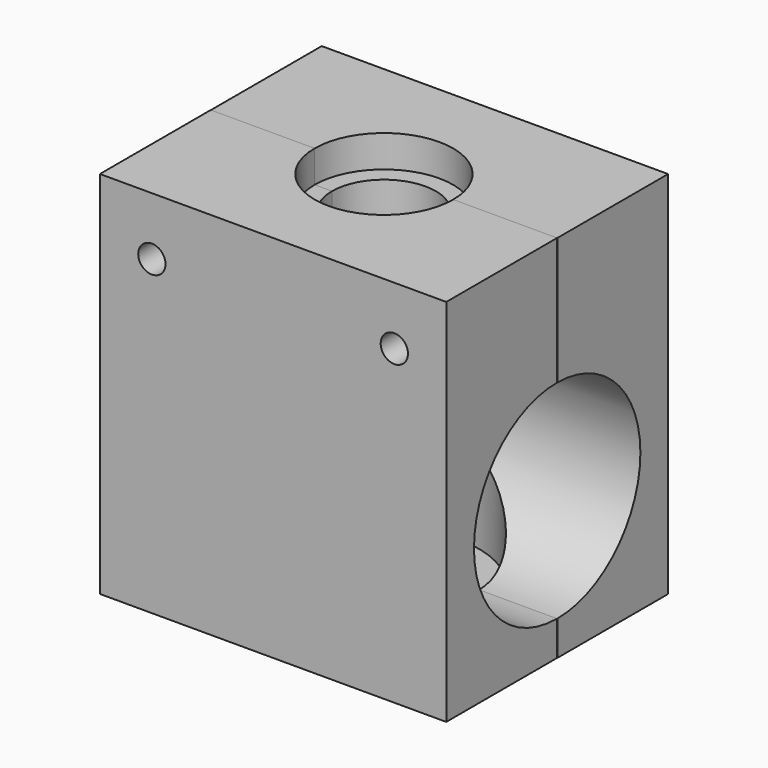
from build123d import *

# Parameters (mm, degrees)
F0_W      = 40
F0_H      = 16
F2_DEPTH  = 42.7
F1_W      = 40
F1_H      = 16
F3_DEPTH  = 42.7
F5_DEPTH  = 3.7
F6_R      = 6
F7_DEPTH  = 6
F8_R      = 8
F9_DEPTH  = 6
F10_R     = 11
F11_DEPTH = 26
F12_R     = 3
F13_DEPTH = 1
F16_D     = 3
F16_DEPTH = 5
F16_TIP   = 0.9012909285
F18_D     = 3
F18_DEPTH = 5
F18_TIP   = 0.9012909285
F20_D     = 3
F20_DEPTH = 5
F20_TIP   = 0.9012909285
F22_D     = 3
F22_DEPTH = 5
F22_TIP   = 0.9012909285
F24_D     = 3.15
F24_2_D   = 3.15
F26_D     = 3.15
F26_2_D   = 3.15
F28_D     = 24
F28_2_D   = 24


with BuildPart() as f2:
    # F0 (on Top) → F2 (new body)
    with BuildSketch(Plane.XY):
        Rectangle(F0_W, F0_H)
    extrude(amount=F2_DEPTH)


with BuildPart() as f3:
    # F1 (on face) → F3 (new body)
    with BuildSketch(Plane.XY):
        with Locations((0.0176080316, 16)):
            Rectangle(F1_W, F1_H)
    extrude(amount=F3_DEPTH)


with BuildPart() as f5_tool:
    # F4 (on face) → F5 (new body)
    with BuildSketch(Plane.XY.offset(42.7)):
        with BuildLine():
            ThreePointArc((-8, 8), (0, 0), (8, 8))
            Line((8, 8), (-8, 8))
        make_face()
        with BuildLine():
            Line((-8, 8), (8, 8))
            ThreePointArc((8, 8), (0, 16), (-8, 8))
        make_face()
    extrude(amount=-F5_DEPTH)


with BuildPart() as f2_1:
    add(f2.part)

    # F5: cut by f5_tool
    add(f5_tool.part, mode=Mode.SUBTRACT)


with BuildPart() as f3_1:
    add(f3.part)

    # F5: cut by f5_tool
    add(f5_tool.part, mode=Mode.SUBTRACT)


with BuildPart() as f7_tool:
    # F6 (on face) → F7 (new body)
    with BuildSketch(Plane.XY.offset(39)):
        with Locations((0, 8)):
            Circle(F6_R)
    extrude(amount=-F7_DEPTH)


with BuildPart() as f2_2:
    add(f2_1.part)

    # F7: cut by f7_tool
    add(f7_tool.part, mode=Mode.SUBTRACT)


with BuildPart() as f3_2:
    add(f3_1.part)

    # F7: cut by f7_tool
    add(f7_tool.part, mode=Mode.SUBTRACT)


with BuildPart() as f9_tool:
    # F8 (on face) → F9 (new body)
    with BuildSketch(Plane.XY.offset(33)):
        with Locations((0, 8)):
            Circle(F8_R)
    extrude(amount=-F9_DEPTH)


with BuildPart() as f2_3:
    add(f2_2.part)

    # F9: cut by f9_tool
    add(f9_tool.part, mode=Mode.SUBTRACT)


with BuildPart() as f3_3:
    add(f3_2.part)

    # F9: cut by f9_tool
    add(f9_tool.part, mode=Mode.SUBTRACT)


with BuildPart() as f11_tool:
    # F10 (on face) → F11 (new body)
    with BuildSketch(Plane.XY.offset(27)):
        with Locations((0, 8)):
            Circle(F10_R)
    extrude(amount=-F11_DEPTH)


with BuildPart() as f2_4:
    add(f2_3.part)

    # F11: cut by f11_tool
    add(f11_tool.part, mode=Mode.SUBTRACT)


with BuildPart() as f3_4:
    add(f3_3.part)

    # F11: cut by f11_tool
    add(f11_tool.part, mode=Mode.SUBTRACT)


with BuildPart() as f13_tool:
    # F12 (on face) → F13 (new body)
    with BuildSketch(Plane.XY.offset(1)):
        with Locations((0, 8)):
            Circle(F12_R)
    extrude(amount=-F13_DEPTH)


with BuildPart() as f2_5:
    add(f2_4.part)

    # F13: cut by f13_tool
    add(f13_tool.part, mode=Mode.SUBTRACT)

    # F16
    with Locations(Plane(origin=(-20, 0, 0), x_dir=(0, -1, 0), z_dir=(-1, 0, 0))):
        with Locations((4, 4)):
            Hole(F16_D / 2, depth=F16_DEPTH)
            with Locations((0, 0, -(F16_DEPTH + F16_TIP / 2))):  # 118° drill point
                Cone(0, F16_D / 2, F16_TIP, mode=Mode.SUBTRACT)

    # F20
    with Locations(Plane(origin=(-20, 0, 0), x_dir=(0, -1, 0), z_dir=(-1, 0, 0))):
        with Locations((4, 28)):
            Hole(F20_D / 2, depth=F20_DEPTH)
            with Locations((0, 0, -(F20_DEPTH + F20_TIP / 2))):  # 118° drill point
                Cone(0, F20_D / 2, F20_TIP, mode=Mode.SUBTRACT)

    # F24 (through all)
    with Locations(Plane.XZ.offset(8)):
        with Locations((-14, 36)):
            Hole(F24_D / 2)

    # F26 (through all)
    with Locations(Plane.XZ.offset(8)):
        with Locations((14, 36)):
            Hole(F26_D / 2)

    # F28 (through all)
    with Locations(Plane(origin=(-20, 0, 0), x_dir=(0, -1, 0), z_dir=(-1, 0, 0))):
        with Locations((-8, 16)):
            Hole(F28_D / 2)


with BuildPart() as f3_5:
    add(f3_4.part)

    # F13: cut by f13_tool
    add(f13_tool.part, mode=Mode.SUBTRACT)

    # F18
    with Locations(Plane(origin=(-19.9823919684, 0, 0), x_dir=(0, -1, 0), z_dir=(-1, 0, 0))):
        with Locations((-20, 4)):
            Hole(F18_D / 2, depth=F18_DEPTH)
            with Locations((0, 0, -(F18_DEPTH + F18_TIP / 2))):  # 118° drill point
                Cone(0, F18_D / 2, F18_TIP, mode=Mode.SUBTRACT)

    # F22
    with Locations(Plane(origin=(-19.9823919684, 0, 0), x_dir=(0, -1, 0), z_dir=(-1, 0, 0))):
        with Locations((-20, 28)):
            Hole(F22_D / 2, depth=F22_DEPTH)
            with Locations((0, 0, -(F22_DEPTH + F22_TIP / 2))):  # 118° drill point
                Cone(0, F22_D / 2, F22_TIP, mode=Mode.SUBTRACT)

    # F24#2 (through all)
    with Locations(Plane.XZ.offset(8)):
        with Locations((-14, 36)):
            Hole(F24_2_D / 2)

    # F26#2 (through all)
    with Locations(Plane.XZ.offset(8)):
        with Locations((14, 36)):
            Hole(F26_2_D / 2)

    # F28#2 (through all)
    with Locations(Plane(origin=(-20, 0, 0), x_dir=(0, -1, 0), z_dir=(-1, 0, 0))):
        with Locations((-8, 16)):
            Hole(F28_2_D / 2)


solid = Compound([f2_5.part, f3_5.part])
